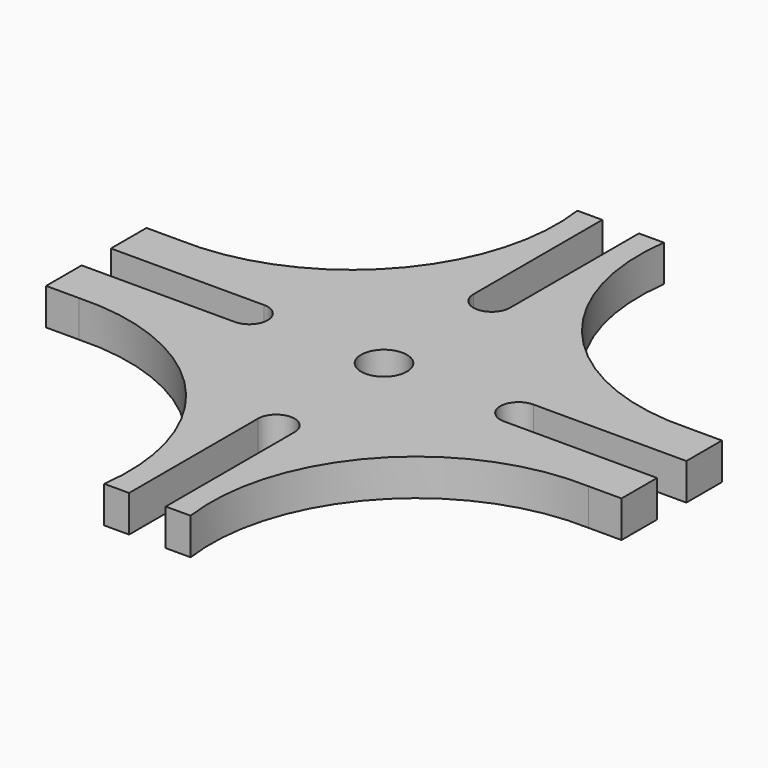
from build123d import *

# Parameters (mm, degrees)
F1_DEPTH = 6.35
F2_R     = 3.96875
F3_DEPTH = 45.73795


with BuildPart() as f1:
    # F0 (on Top) → F1 (new body)
    with BuildSketch(Plane.XY):
        with BuildLine():
            ThreePointArc((-7.484571, 51.258114), (-16.386664, 22.501379), (-44.15456, 10.876361))
            Line((-44.15456, 10.876361), (-49.865723, 10.876361))
            Line((-49.865723, 10.876361), (-49.865723, 3.175))
            Line((-49.865723, 3.175), (-23.336682, 3.175))
            ThreePointArc((-23.336682, 3.175), (-20.161682, 0), (-23.336682, -3.175))
            Line((-23.336682, -3.175), (-49.865723, -3.175))
            Line((-49.865723, -3.175), (-49.865723, -10.876361))
            Line((-49.865723, -10.876361), (-44.15456, -10.876361))
            ThreePointArc((-44.15456, -10.876361), (-16.386664, -22.501379), (-7.484571, -51.258114))
            Line((-7.484571, -51.258114), (-3.175, -51.258114))
            Line((-3.175, -51.258114), (-3.175, -23.3426))
            ThreePointArc((-3.175, -23.3426), (0, -20.1676), (3.175, -23.3426))
            Line((3.175, -23.3426), (3.175, -51.258114))
            Line((3.175, -51.258114), (7.484571, -51.258114))
            ThreePointArc((7.484571, -51.258114), (16.386664, -22.501379), (44.15456, -10.876361))
            Line((44.15456, -10.876361), (49.865723, -10.876361))
            Line((49.865723, -10.876361), (49.865723, -3.175))
            Line((49.865723, -3.175), (23.336682, -3.175))
            ThreePointArc((23.336682, -3.175), (20.161682, 0), (23.336682, 3.175))
            Line((23.336682, 3.175), (49.865723, 3.175))
            Line((49.865723, 3.175), (49.865723, 10.876361))
            Line((49.865723, 10.876361), (44.15456, 10.876361))
            ThreePointArc((44.15456, 10.876361), (16.386664, 22.501379), (7.484571, 51.258114))
            Line((7.484571, 51.258114), (3.175, 51.258114))
            Line((3.175, 51.258114), (3.175, 23.3426))
            ThreePointArc((3.175, 23.3426), (0, 20.1676), (-3.175, 23.3426))
            Line((-3.175, 23.3426), (-3.175, 51.258114))
            Line((-3.175, 51.258114), (-7.484571, 51.258114))
        make_face()
    extrude(amount=F1_DEPTH)

    # F2 (on face) → F3 (cut)
    with BuildSketch(Plane(origin=(0, 0, 0), x_dir=(1, 0, 0), z_dir=(0, 0, -1))):
        Circle(F2_R)
    extrude(amount=-F3_DEPTH, mode=Mode.SUBTRACT)


solid = f1.part
